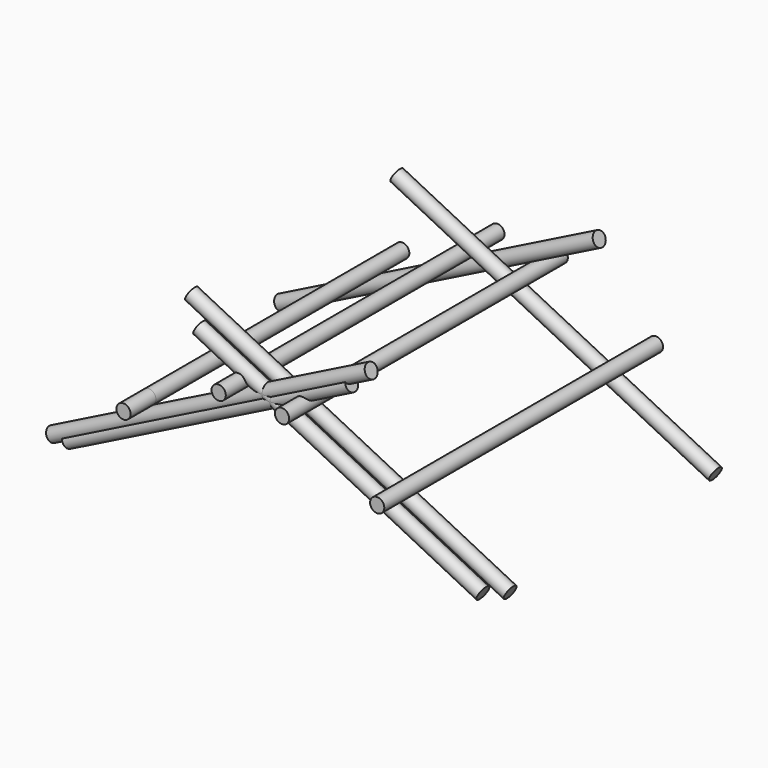
from build123d import *

# Parameters (mm, degrees)
F3_R           = 45
F4_DEPTH       = 2000
F8_R           = 45
F9_DEPTH       = 2250
F11_R          = 45
F12_DEPTH      = 2000
F12_DEPTH_BACK = 200


with BuildPart() as f4:
    # F3 (on line) → F4 (new body)
    with BuildSketch(Plane(origin=(-1045.8591264694, 0, -523.7872847286), x_dir=(0, 1, 0), z_dir=(0.8941336828, 0, 0.447800131))):
        with Locations((0, 585.8042201385)):
            Circle(F3_R)
    extrude(amount=F4_DEPTH)


with BuildPart() as f5_1:
    # F5: instance of F4
    add(f4.part.mirror(Plane.YZ))


with BuildPart() as f9:
    # F8 (on line) → F9 (new body)
    with BuildSketch(Plane(origin=(-1126.199381922, 0, -564.0233004527), x_dir=(0, 1, 0), z_dir=(0.8941336828, 0, 0.447800131))):
        with Locations((0, 630.8042201385)):
            Circle(F8_R)
    extrude(amount=F9_DEPTH)


with BuildPart() as f10_1:
    # F10: instance of F9
    add(f9.part.mirror(Plane.YZ))


with BuildPart() as f12:
    # F11 (on Front) → F12 (new body, two sides)
    with BuildSketch(Plane.XZ) as f12_sk:
        with Locations((-800.9825226983, 405)):
            Circle(F11_R)
    extrude(amount=-F12_DEPTH)
    extrude(f12_sk.sketch, amount=F12_DEPTH_BACK)


with BuildPart() as f12b:
    # F0 (on Front) → F12, piece 2 (new body, two sides)
    with BuildSketch(Plane.XZ) as f12_2_sk:
        with BuildLine():
            ThreePointArc((-200, 660), (-168.1801948466, 673.1801948466), (-155, 705))
            ThreePointArc((-155, 705), (-168.1801948466, 736.8198051534), (-200, 750))
            ThreePointArc((-200, 750), (-245, 705), (-200, 660))
        make_face()
    extrude(amount=-F12_DEPTH)
    extrude(f12_2_sk.sketch, amount=F12_DEPTH_BACK)


with BuildPart() as f10_1_1:
    # F13: moved
    add(f10_1.part.moved(Location((0, 90, 0))))


with BuildPart() as f14_1:
    # F14: instance of F12
    add(f12.part.mirror(Plane.YZ))


with BuildPart() as f14_2:
    # F14: instance of F12b
    add(f12b.part.mirror(Plane.YZ))


with BuildPart() as f17_1:
    # F17: instance of F9
    add(f9.part.mirror(Plane.XZ.offset(-900)))


with BuildPart() as f17_2:
    # F17: instance of F10_1
    add(f10_1_1.part.mirror(Plane.XZ.offset(-900)))


solid = Compound([f4.part, f5_1.part, f9.part, f12.part, f12b.part, f10_1_1.part, f14_1.part, f14_2.part, f17_1.part, f17_2.part])
